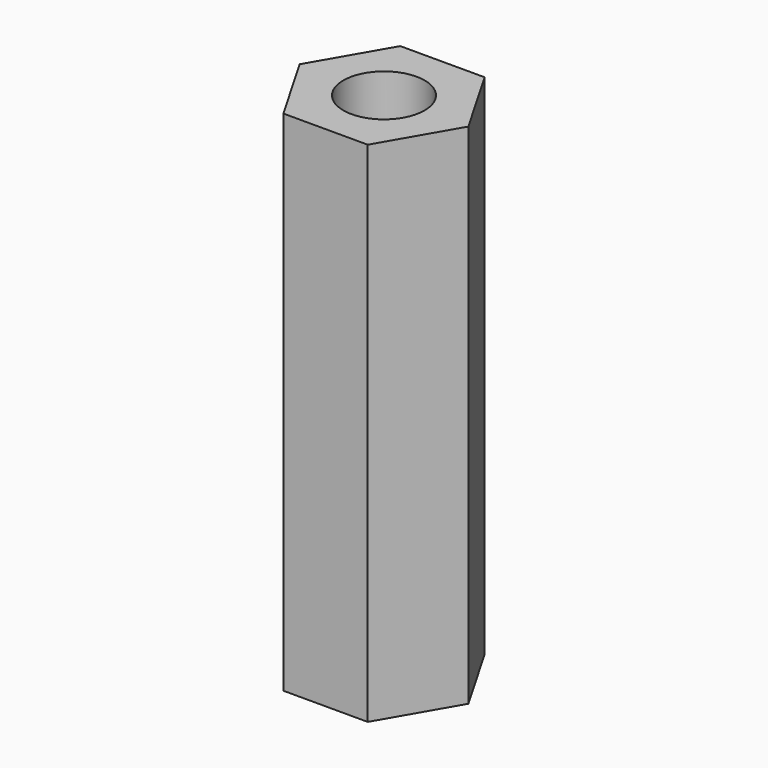
from build123d import *

# Parameters (mm, degrees)
CYLINDER013_R     = 2
CYLINDER013_DEPTH = 50
PAD_DEPTH         = 25


with BuildPart() as cylinder013:
    # Cylinder013 → Cylinder013 (new body)
    with BuildSketch(Plane(origin=(-90, 0, -10), x_dir=(1, 0, 0), z_dir=(0, 0, 1))):
        Circle(CYLINDER013_R)
    extrude(amount=CYLINDER013_DEPTH)


with BuildPart() as obj1:
    # Polygon → Pad (new body)
    with BuildSketch(Plane(origin=(-90, 0, 0), x_dir=(1, 0, 0), z_dir=(0, 0, 1))):
        Polygon((2.075, 3.594005), (4.15, 0), (2.075, -3.594005), (-2.075, -3.594005), (-4.15, 0), (-2.075, 3.594005), align=None)
    extrude(amount=PAD_DEPTH)

    # Cut002002: cut Cylinder013
    add(cylinder013.part, mode=Mode.SUBTRACT)


solid = obj1.part
